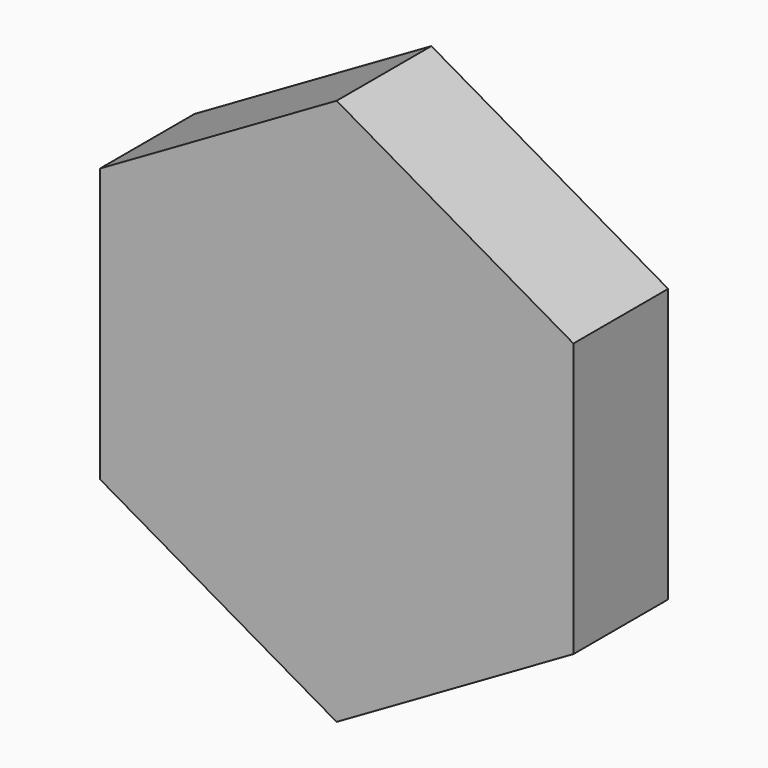
from build123d import *

# Parameters (mm, degrees)
F1_DEPTH = 1.5


with BuildPart() as f1:
    # F0 (on Front) → F1 (new body, symmetric)
    with BuildSketch(Plane.XZ):
        Polygon((6, 3.4641016151), (0, 6.9282032303), (0, 0), align=None)
        Polygon((0, 0), (0, 6.9282032303), (-6, 3.4641016151), align=None)
        Polygon((6, -3.4641016151), (0, 0), (0, -6.9282032303), align=None)
        Polygon((-6, -3.4641016151), (0, 0), (-6, 3.4641016151), align=None)
        Polygon((6, 3.4641016151), (0, 0), (6, -3.4641016151), align=None)
        Polygon((0, -6.9282032303), (0, 0), (-6, -3.4641016151), align=None)
    extrude(amount=F1_DEPTH, both=True)


solid = f1.part
